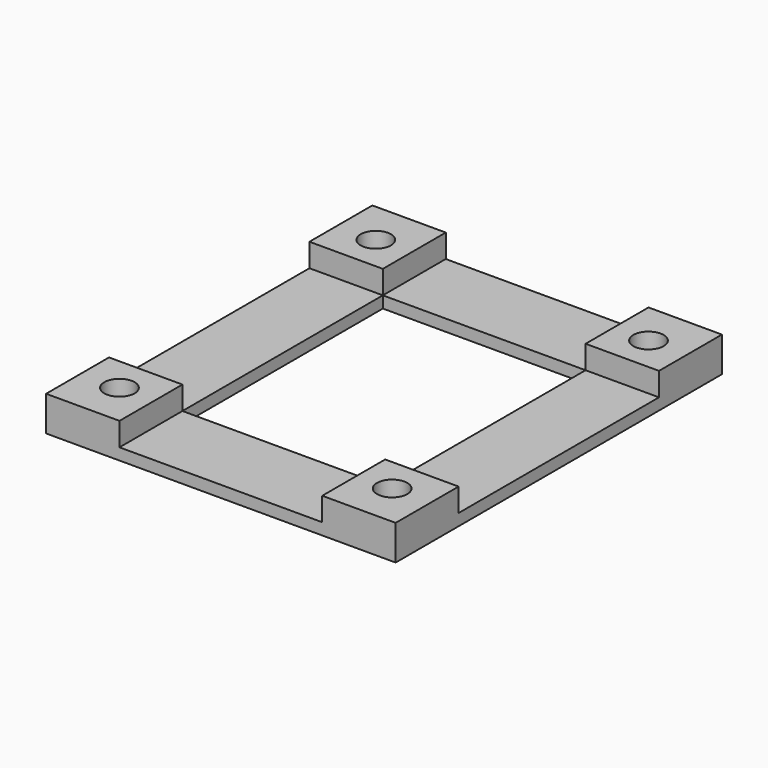
from build123d import *

# Parameters (mm, degrees)
F1_W     = 30
F1_H     = 35
F2_DEPTH = 1
F3_W     = 6.3
F3_H     = 6.75
F4_DEPTH = 2
F5_R     = 1.3
F6_DEPTH = 3.001
F7_W     = 17.4
F7_H     = 21.5
F8_DEPTH = 1.001


with BuildPart() as f2:
    # F1 (on Top) → F2 (new body)
    with BuildSketch(Plane.XY):
        with Locations((11.7, 13.75)):
            Rectangle(F1_W, F1_H)
    extrude(amount=F2_DEPTH)

    # F3 (on face) → F4 (join)
    with BuildSketch(Plane.XY.offset(1)):
        with Locations((-0.15, 27.875)):
            Rectangle(F3_W, F3_H)
        with Locations((23.55, 27.875)):
            Rectangle(F3_W, F3_H)
        with Locations((23.55, -0.375)):
            Rectangle(F3_W, F3_H)
        with Locations((-0.15, -0.375)):
            Rectangle(F3_W, F3_H)
    extrude(amount=F4_DEPTH)

    # F5 (on face) → F6 (cut, through all)
    with BuildSketch(Plane.XY.offset(3)):
        with Locations((0, 27.5)):
            Circle(F5_R)
        with Locations((23.4, 27.5)):
            Circle(F5_R)
        with Locations((23.4, 0)):
            Circle(F5_R)
        Circle(F5_R)
    extrude(amount=-F6_DEPTH, mode=Mode.SUBTRACT)

    # F7 (on face) → F8 (cut, through all)
    with BuildSketch(Plane.XY.offset(1)):
        with Locations((11.7, 13.75)):
            Rectangle(F7_W, F7_H)
    extrude(amount=-F8_DEPTH, mode=Mode.SUBTRACT)


solid = f2.part
